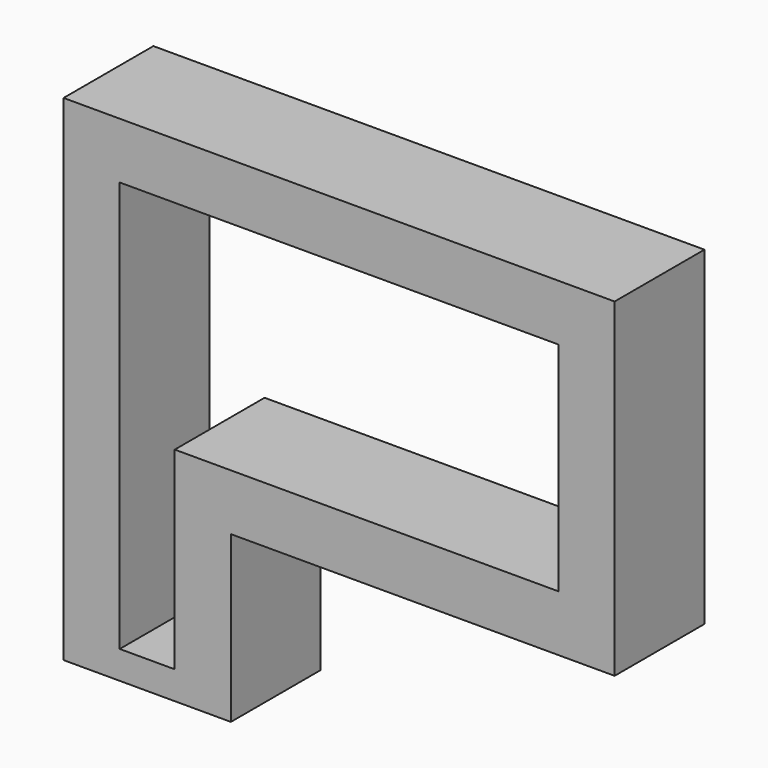
from build123d import *

# Parameters (mm, degrees)
F0_W      = 30.1625
F0_H      = 6.35
F1_DEPTH  = 26.9875
F3_DEPTH  = 6.351
F4_W      = 12.7
F4_H      = 6.35
F5_DEPTH  = 6.351
F6_W      = 6.35
F6_H      = 1.5875
F7_DEPTH  = 7.9375
F8_W      = 12.7
F8_H      = 6.35
F9_DEPTH  = 3
F10_W     = 12.7
F10_H     = 6.35
F11_DEPTH = 3
F12_W     = 6.35
F12_H     = 10.9375
F13_DEPTH = 8
F14_W     = 6.35
F14_H     = 9.35
F15_DEPTH = 8
F16_W     = 6.35
F16_H     = 17.6375
F17_DEPTH = 1
F18_W     = 6.35
F18_H     = 11.2875
F19_DEPTH = 1
F20_W     = 24.8125
F20_H     = 6.35
F21_DEPTH = 1
F22_W     = 31.1625
F22_H     = 6.35
F23_DEPTH = 1


with BuildPart() as f1:
    # F0 (on Top) → F1 (new body)
    with BuildSketch(Plane.XY):
        with Locations((3.826838, -2.493716)):
            Rectangle(F0_W, F0_H)
    extrude(amount=F1_DEPTH)

    # F2 (on face) → F3 (cut, through all)
    with BuildSketch(Plane.XZ.offset(5.668716)):
        Polygon((15.733088, 9.525), (15.733088, 23.8125), (-8.079412, 23.8125), (-8.079412, 1.5875), (-4.904412, 1.5875), (-4.904412, 0), (3.033088, 0), (3.033088, 9.525), align=None)
    extrude(amount=-F3_DEPTH, mode=Mode.SUBTRACT)

    # F4 (on face) → F5 (cut, through all)
    with BuildSketch(Plane.XZ.offset(5.668716)):
        with Locations((12.558088, 3.175)):
            Rectangle(F4_W, F4_H)
    extrude(amount=-F5_DEPTH, mode=Mode.SUBTRACT)

    # F6 (on face) → F7 (join)
    with BuildSketch(Plane.YZ.offset(-4.904412)):
        with Locations((-2.493716, 0.79375)):
            Rectangle(F6_W, F6_H)
    extrude(amount=F7_DEPTH)

    # F8 (on face) → F9 (join)
    with BuildSketch(Plane.XY.offset(9.525)):
        with Locations((9.383088, -2.493716)):
            Rectangle(F8_W, F8_H)
    extrude(amount=F9_DEPTH)

    # F10 (on face) → F11 (cut)
    with BuildSketch(Plane(origin=(0, 0, 6.35), x_dir=(1, 0, 0), z_dir=(0, 0, -1))):
        with Locations((12.558088, 2.493716)):
            Rectangle(F10_W, F10_H)
    extrude(amount=-F11_DEPTH, mode=Mode.SUBTRACT)

    # F12 (on face) → F13 (join)
    with BuildSketch(Plane(origin=(3.033088, 0, 0), x_dir=(0, -1, 0), z_dir=(-1, 0, 0))):
        with Locations((2.493716, 7.05625)):
            Rectangle(F12_W, F12_H)
    extrude(amount=F13_DEPTH)

    # F14 (on face) → F15 (cut)
    with BuildSketch(Plane.YZ.offset(6.208088)):
        with Locations((-2.493716, 4.675)):
            Rectangle(F14_W, F14_H)
    extrude(amount=-F15_DEPTH, mode=Mode.SUBTRACT)

    # F16 (on face) → F17 (join)
    with BuildSketch(Plane.YZ.offset(18.908088)):
        with Locations((-2.493716, 18.16875)):
            Rectangle(F16_W, F16_H)
    extrude(amount=F17_DEPTH)

    # F18 (on face) → F19 (cut)
    with BuildSketch(Plane(origin=(15.733088, 0, 0), x_dir=(0, -1, 0), z_dir=(-1, 0, 0))):
        with Locations((2.493716, 18.16875)):
            Rectangle(F18_W, F18_H)
    extrude(amount=-F19_DEPTH, mode=Mode.SUBTRACT)

    # F20 (on face) → F21 (cut)
    with BuildSketch(Plane(origin=(0, 0, 23.8125), x_dir=(1, 0, 0), z_dir=(0, 0, -1))):
        with Locations((4.326838, 2.493716)):
            Rectangle(F20_W, F20_H)
    extrude(amount=-F21_DEPTH, mode=Mode.SUBTRACT)

    # F22 (on face) → F23 (join)
    with BuildSketch(Plane.XY.offset(26.9875)):
        with Locations((4.326838, -2.493716)):
            Rectangle(F22_W, F22_H)
    extrude(amount=F23_DEPTH)


solid = f1.part
